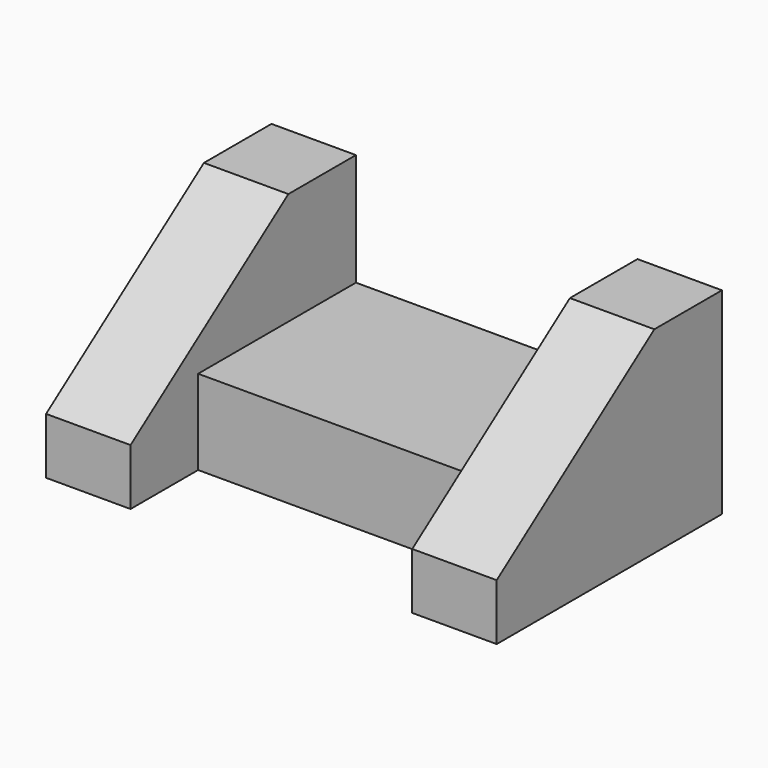
from build123d import *

# Parameters (mm, degrees)
F1_DEPTH = 19.05
F2_W     = 44.4994677836
F2_H     = 19.1223323345
F3_DEPTH = 63.5
F5_DEPTH = 19.05
F6_DEPTH = 19.05


with BuildPart() as f1:
    # F0 (on Right) → F1 (new body)
    with BuildSketch(Plane.YZ):
        Polygon((-30.6730988776, 12.7), (-30.6730988776, 0), (32.876368906, 0), (32.876368906, 44.45), (13.826368906, 44.45), align=None)
    extrude(amount=F1_DEPTH)

    # F2 (on face) → F3 (join)
    with BuildSketch(Plane.YZ.offset(19.05)):
        with Locations((10.6266350142, 9.5611661673)):
            Rectangle(F2_W, F2_H)
    extrude(amount=F3_DEPTH)

    # F4 (on face) → F5 (join)
    with BuildSketch(Plane.YZ.offset(82.55)):
        Polygon((-11.6230988776, 19.1223323345), (32.876368906, 19.1223323345), (32.876368906, 44.45), (13.826368906, 44.45), (-30.623631094, 12.7), (-30.623631094, 0), (-11.6230988776, 0), align=None)
    extrude(amount=F5_DEPTH)

    # F6 (add, through all): a face of the model
    f6_faces = [f1.faces().sort_by_distance(p)[0] for p in [
        (82.55, 10.6266350142, 9.5611661673),
    ]]
    extrude(f6_faces, amount=F6_DEPTH)


solid = f1.part
